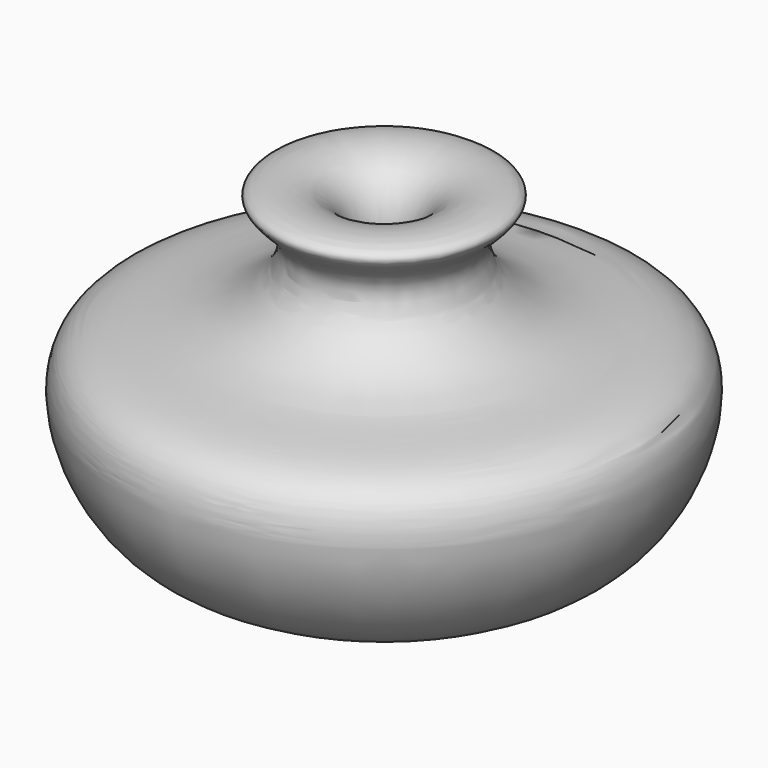
from build123d import *


with BuildPart() as f1:
    # F0 (on Right) → F1 (revolve)
    with BuildSketch(Plane.YZ):
        with BuildLine():
            Line((0, 0), (0, 9.4242552295))
            add(Edge.make_bspline(
                [(0, 0), (-10.5055604466, 0.0569564278), (-29.2852057776, 0.1587712257), (-36.3855338052, 27.2746196139), (-16.662485019, 24.2262413094), (-7.2148153122, 35.5374056191), (-17.084330574, 40.850898359), (-5.1809390136, 42.3642937519), (-1.6427517415, 31.6929112115), (-11.0893005211, 24.4566025646), (-19.669769534, 22.3259836917), (-25.6717258622, 19.2143793913), (-23.631413354, 9.5465225173), (-12.6886809517, 8.2104306986), (-4.4338216596, 9.0001070051), (0, 9.4242552295)],
                knots=[0, 0, 0, 0, 0.123870464, 0.2214297269, 0.31235123, 0.3894646855, 0.4452382167, 0.5061304717, 0.5746462584, 0.6510234903, 0.722352289, 0.7779313675, 0.841393707, 0.9148099329, 1, 1, 1, 1], degree=3))
        make_face()
    revolve(axis=Axis((0, 0, 4.7121276148), (0, 0, -1)))


solid = f1.part
